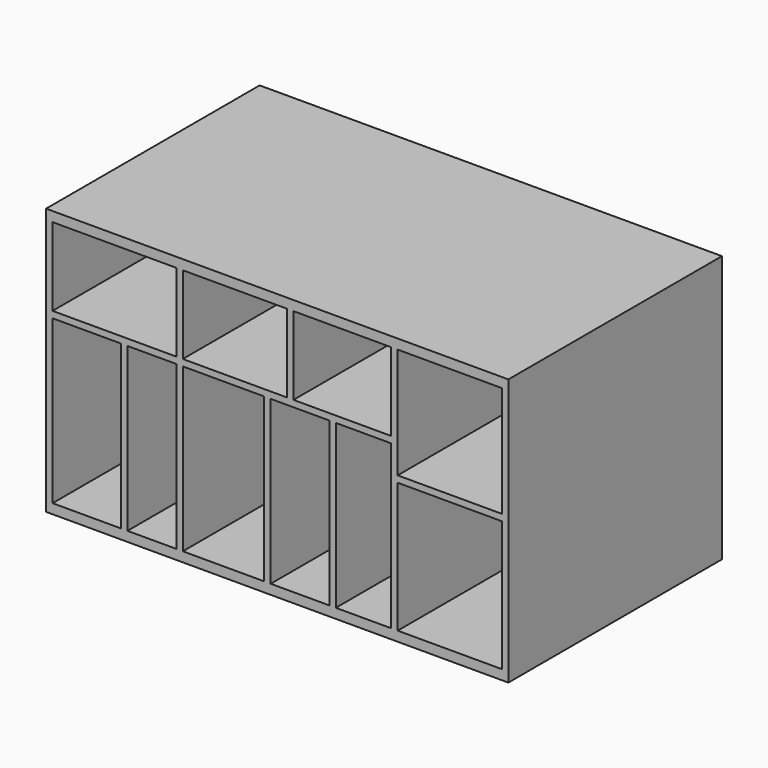
from build123d import *

# Parameters (mm, degrees)
F0_W     = 12.7
F0_H     = 152.4
F0_H_2   = 317.5
F0_W_2   = 203.2
F0_H_3   = 12.7
F1_DEPTH = 508
F2_W     = 901.7
F2_H     = 520.7
F3_DEPTH = 12.7


with BuildPart() as f1:
    # F0 (on Front) → F1 (new body)
    with BuildSketch(Plane.XZ):
        Polygon((-12.7, 584.2), (-12.7, 565.15), (0, 565.15), (241.3, 565.15), (254, 565.15), (457.2, 565.15), (469.9, 565.15), (660.4, 565.15), (673.1, 565.15), (876.3, 565.15), (889, 565.15), (889, 584.2), align=None)
        with Locations((247.65, 488.95)):
            Rectangle(F0_W, F0_H)
        Polygon((-12.7, 565.15), (-12.7, 82.55), (0, 82.55), (0, 400.05), (0, 412.75), (0, 565.15), align=None)
        Polygon((0, 412.75), (0, 400.05), (133.35, 400.05), (146.05, 400.05), (241.3, 400.05), (254, 400.05), (412.75, 400.05), (425.45, 400.05), (539.75, 400.05), (552.45, 400.05), (660.4, 400.05), (673.1, 400.05), (673.1, 412.75), (660.4, 412.75), (469.9, 412.75), (457.2, 412.75), (254, 412.75), (241.3, 412.75), align=None)
        with Locations((139.7, 241.3)):
            Rectangle(F0_W, F0_H_2)
        with Locations((247.65, 241.3)):
            Rectangle(F0_W, F0_H_2)
        Polygon((0, 82.55), (-12.7, 82.55), (-12.7, 63.5), (889, 63.5), (889, 82.55), (876.3, 82.55), (673.1, 82.55), (660.4, 82.55), (552.45, 82.55), (539.75, 82.55), (425.45, 82.55), (412.75, 82.55), (254, 82.55), (241.3, 82.55), (146.05, 82.55), (133.35, 82.55), align=None)
        with Locations((419.1, 241.3)):
            Rectangle(F0_W, F0_H_2)
        with Locations((463.55, 488.95)):
            Rectangle(F0_W, F0_H)
        with Locations((546.1, 241.3)):
            Rectangle(F0_W, F0_H_2)
        Polygon((660.4, 82.55), (673.1, 82.55), (673.1, 336.55), (673.1, 349.25), (673.1, 400.05), (660.4, 400.05), align=None)
        with Locations((774.7, 342.9)):
            Rectangle(F0_W_2, F0_H_3)
        Polygon((876.3, 82.55), (889, 82.55), (889, 565.15), (876.3, 565.15), (876.3, 349.25), (876.3, 336.55), align=None)
        with Locations((666.75, 488.95)):
            Rectangle(F0_W, F0_H)
    extrude(amount=F1_DEPTH)

    # F2 (on face) → F3 (join)
    with BuildSketch(Plane(origin=(0, 0, 0), x_dir=(-1, 0, 0), z_dir=(0, 1, 0))):
        with Locations((-438.15, 323.85)):
            Rectangle(F2_W, F2_H)
    extrude(amount=F3_DEPTH)


solid = f1.part
